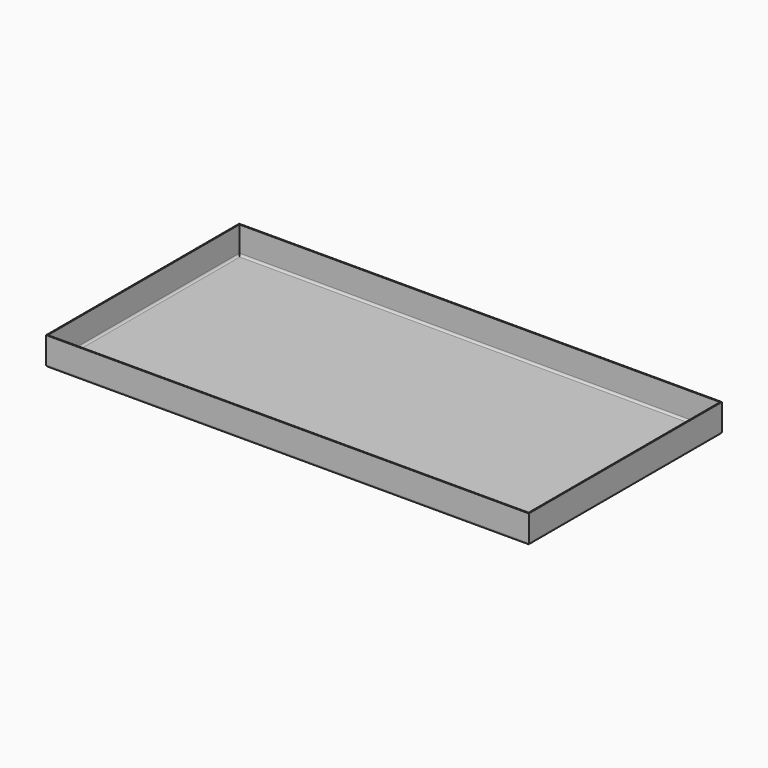
from build123d import *

# Parameters (mm, degrees)
F0_W     = 1200
F0_H     = 600
F1_DEPTH = 70
F2_T     = -2.5
F3_R     = 5
F4_R     = 5


with BuildPart() as f1:
    # F0 (on Top) → F1 (new body)
    with BuildSketch(Plane.XY):
        with Locations((600, 300)):
            Rectangle(F0_W, F0_H)
    extrude(amount=F1_DEPTH)

    # F2
    f2_openings = [f1.faces().sort_by_distance(p)[0] for p in [
        (600, 300, 70),
    ]]
    offset(amount=F2_T, openings=f2_openings)

    # F3
    f3_edges = [f1.edges().sort_by_distance(p)[0] for p in [
        (0, 300, 0),
        (600, 0, 0),
        (1200, 300, 0),
        (600, 600, 0),
    ]]
    fillet(f3_edges, radius=F3_R)

    # F4
    f4_edges = [f1.edges().sort_by_distance(p)[0] for p in [
        (2.5, 300, 2.5),
        (600, 2.5, 2.5),
        (1197.5, 300, 2.5),
        (600, 597.5, 2.5),
    ]]
    fillet(f4_edges, radius=F4_R)


solid = f1.part
